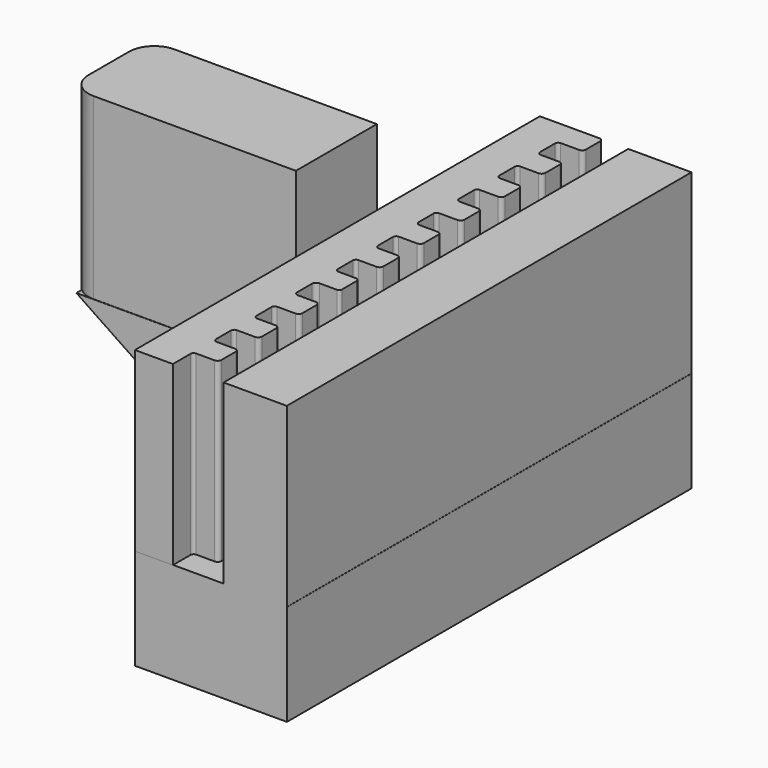
from build123d import *

# Parameters (mm, degrees)
SKETCH_W     = 6
SKETCH_H     = 20
PAD_DEPTH    = 4
PAD001_DEPTH = 7
SKETCH002_W  = 2.5
SKETCH002_H  = 20
PAD002_DEPTH = 7
SKETCH003_W  = 4
SKETCH003_H  = 7.068021
PAD003_DEPTH = 9
PAD004_DEPTH = 4
FILLET_R     = 1
FILLET001_R  = 1


with BuildPart() as part:
    # Sketch → Pad (new body)
    with BuildSketch(Plane.XY):
        with Locations((3, -10)):
            Rectangle(SKETCH_W, SKETCH_H)
    extrude(amount=PAD_DEPTH)

    # Sketch001 (on Face6 of Pad) → Pad001 (join)
    with BuildSketch(Plane.XY.offset(4)):
        with BuildLine():
            Line((0, 0), (2.35958, 0))
            ThreePointArc((2.5, -0.14042), (2.458872, -0.041128), (2.35958, 0))
            Line((2.5, -0.14042), (2.5, -0.850163))
            ThreePointArc((2.350164, -0.999998), (2.456114, -0.956113), (2.5, -0.850163))
            Line((2.350164, -0.999998), (1.624627, -0.999998))
            ThreePointArc((1.624627, -0.999998), (1.536498, -1.036503), (1.499994, -1.124632))
            Line((1.499994, -1.124632), (1.499994, -1.858533))
            ThreePointArc((1.499994, -1.858533), (1.541436, -1.958583), (1.641485, -2.000025))
            Line((1.641485, -2.000025), (2.359631, -2.000025))
            ThreePointArc((2.5, -2.140395), (2.458887, -2.041139), (2.359631, -2.000025))
            Line((2.5, -2.140395), (2.5, -2.851653))
            ThreePointArc((2.350363, -3.00129), (2.456173, -2.957463), (2.5, -2.851653))
            Line((2.350363, -3.00129), (1.623935, -3.00129))
            ThreePointArc((1.623935, -3.00129), (1.535246, -3.038027), (1.49851, -3.126716))
            Line((1.49851, -3.126716), (1.49851, -3.86339))
            ThreePointArc((1.49851, -3.86339), (1.54088, -3.965679), (1.643169, -4.008049))
            Line((1.643169, -4.008049), (2.364441, -4.008049))
            ThreePointArc((2.500184, -4.143792), (2.460426, -4.047807), (2.364441, -4.008049))
            Line((2.500184, -4.143792), (2.500184, -4.853508))
            ThreePointArc((2.35038, -5.003311), (2.456307, -4.959435), (2.500184, -4.853508))
            Line((2.35038, -5.003311), (1.6247, -5.003311))
            ThreePointArc((1.6247, -5.003311), (1.536481, -5.039852), (1.49994, -5.128071))
            Line((1.49994, -5.128071), (1.49994, -5.863058))
            ThreePointArc((1.49994, -5.863058), (1.541531, -5.963466), (1.641939, -6.005056))
            Line((1.641939, -6.005056), (2.359895, -6.005056))
            ThreePointArc((2.50033, -6.145492), (2.459198, -6.046189), (2.359895, -6.005056))
            Line((2.50033, -6.145492), (2.50033, -6.855288))
            ThreePointArc((2.350434, -7.005184), (2.456427, -6.961281), (2.50033, -6.855288))
            Line((2.350434, -7.005184), (1.625171, -7.005184))
            ThreePointArc((1.625171, -7.005184), (1.537215, -7.041617), (1.500782, -7.129574))
            Line((1.500782, -7.129574), (1.500782, -7.862621))
            ThreePointArc((1.500782, -7.862621), (1.541938, -7.96198), (1.641297, -8.003136))
            Line((1.641297, -8.003136), (2.356324, -8.003136))
            ThreePointArc((2.500346, -8.147159), (2.458163, -8.04532), (2.356324, -8.003136))
            Line((2.500346, -8.147159), (2.500346, -8.856808))
            ThreePointArc((2.350618, -9.006537), (2.456492, -8.962682), (2.500346, -8.856808))
            Line((2.350618, -9.006537), (1.624599, -9.006537))
            ThreePointArc((1.624599, -9.006537), (1.536168, -9.043166), (1.499538, -9.131597))
            Line((1.499538, -9.131597), (1.499538, -9.865251))
            ThreePointArc((1.499538, -9.865251), (1.541481, -9.966511), (1.642741, -10.008454))
            Line((1.642741, -10.008454), (2.360053, -10.008454))
            ThreePointArc((2.500444, -10.148846), (2.459325, -10.049574), (2.360053, -10.008454))
            Line((2.500444, -10.148846), (2.500444, -10.858493))
            ThreePointArc((2.35072, -11.008218), (2.456591, -10.964364), (2.500444, -10.858493))
            Line((2.35072, -11.008218), (1.634349, -11.008218))
            ThreePointArc((1.634349, -11.008218), (1.545907, -11.044851), (1.509274, -11.133292))
            Line((1.509274, -11.133292), (1.509274, -11.86852))
            ThreePointArc((1.509274, -11.86852), (1.548403, -11.962986), (1.642869, -12.002116))
            Line((1.642869, -12.002116), (2.314983, -12.002116))
            ThreePointArc((2.46352, -12.150526), (2.420007, -12.045539), (2.314983, -12.002116))
            Line((2.46352, -12.150526), (2.46352, -12.860116))
            ThreePointArc((2.350852, -12.972783), (2.43052, -12.939784), (2.46352, -12.860116))
            Line((2.350852, -12.972783), (1.661516, -12.972783))
            ThreePointArc((1.661516, -12.972783), (1.546733, -13.020328), (1.499189, -13.135111))
            Line((1.499189, -13.135111), (1.499189, -13.871471))
            ThreePointArc((1.499189, -13.871471), (1.541454, -13.973508), (1.64349, -14.015773))
            Line((1.64349, -14.015773), (2.364217, -14.015773))
            ThreePointArc((2.500673, -14.152229), (2.460706, -14.05574), (2.364217, -14.015773))
            Line((2.500673, -14.152229), (2.500673, -14.861927))
            ThreePointArc((2.350891, -15.011709), (2.456803, -14.967839), (2.500673, -14.861927))
            Line((2.350891, -15.011709), (1.625116, -15.011709))
            ThreePointArc((1.625116, -15.011709), (1.536839, -15.048275), (1.500273, -15.136553))
            Line((1.500273, -15.136553), (1.500273, -15.871192))
            ThreePointArc((1.500273, -15.871192), (1.541957, -15.971828), (1.642593, -16.013512))
            Line((1.642593, -16.013512), (2.360814, -16.013512))
            ThreePointArc((2.501217, -16.153916), (2.460093, -16.054636), (2.360814, -16.013512))
            Line((2.501217, -16.153916), (2.501217, -16.863601))
            ThreePointArc((2.350997, -17.01382), (2.457218, -16.969822), (2.501217, -16.863601))
            Line((2.350997, -17.01382), (1.625163, -17.01382))
            ThreePointArc((1.625163, -17.01382), (1.537165, -17.05027), (1.500715, -17.138268))
            Line((1.500715, -17.138268), (1.500715, -17.873094))
            ThreePointArc((1.500715, -17.873094), (1.542335, -17.973572), (1.642813, -18.015192))
            Line((1.642813, -18.015192), (2.36048, -18.015192))
            ThreePointArc((2.5009, -18.155612), (2.459772, -18.05632), (2.36048, -18.015192))
            Line((2.5009, -18.155612), (2.5009, -18.865356))
            ThreePointArc((2.351064, -19.015192), (2.457014, -18.971306), (2.5009, -18.865356))
            Line((2.351064, -19.015192), (1.62553, -19.015192))
            ThreePointArc((1.62553, -19.015192), (1.537403, -19.051695), (1.5009, -19.139822))
            Line((1.5009, -19.139822), (1.5009, -20.013354))
            Line((0, -20.013354), (1.5009, -20.013354))
            Line((0, -20.013354), (0, 0))
        make_face()
    extrude(amount=PAD001_DEPTH)

    # Sketch002 (on Face6 of Pad001) → Pad002 (join)
    with BuildSketch(Plane.XY.offset(4)):
        with Locations((4.74459, -10)):
            Rectangle(SKETCH002_W, SKETCH002_H)
    extrude(amount=PAD002_DEPTH)

    # Sketch003 (on Face10 of Pad002) → Pad003 (join)
    with BuildSketch(Plane(origin=(0, 0, 0), x_dir=(0, -1, 0), z_dir=(-1, 0, 0))):
        with Locations((10.057235, 10.469196)):
            Rectangle(SKETCH003_W, SKETCH003_H)
    extrude(amount=PAD003_DEPTH)

    # Sketch004 (on Face95 of Pad003) → Pad004 (join)
    with BuildSketch(Plane(origin=(0, -8.057235, 0), x_dir=(-1, 0, 0), z_dir=(0, 1, 0))):
        Polygon((8.679756, 6.927178), (0, 1.075306), (0, 6.927178), align=None)
    extrude(amount=-PAD004_DEPTH)

    # Fillet
    fillet_edges = [part.edges().sort_by_distance(p)[0] for p in [
        (-9, -8.057235, 10.469196),
    ]]
    fillet(fillet_edges, radius=FILLET_R)

    # Fillet001
    fillet001_edges = [part.edges().sort_by_distance(p)[0] for p in [
        (-9, -12.057235, 10.469196),
    ]]
    fillet(fillet001_edges, radius=FILLET001_R)


solid = part.part
